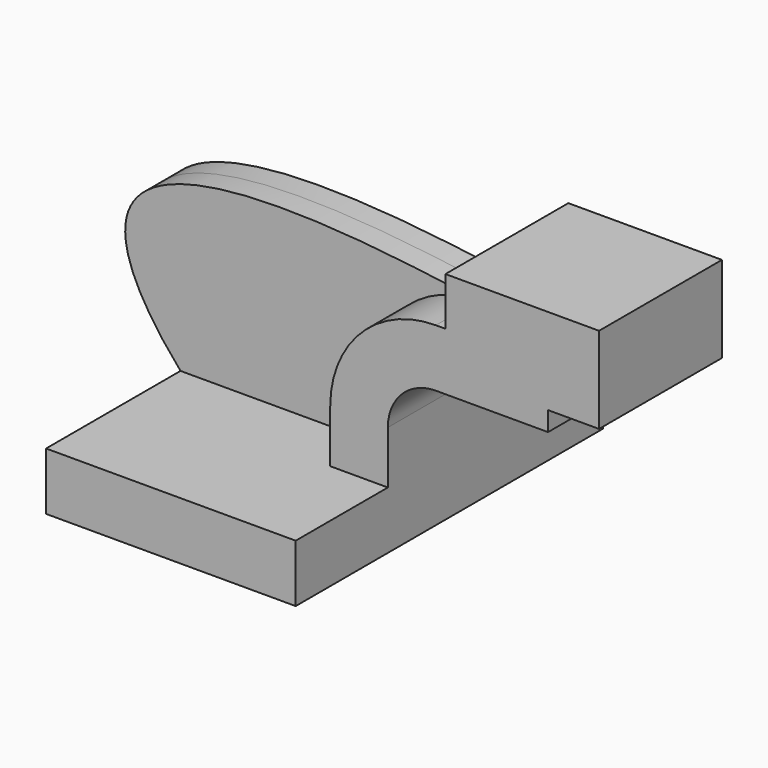
from build123d import *

# Parameters (mm, degrees)
F1_DEPTH = 63.5
F0_W     = 33.928780768
F0_H     = 12.6356402498
F2_DEPTH = 25.4
F3_DEPTH = 7.9375


with BuildPart() as f1:
    # F0 (on Front) → F1 (new body, symmetric)
    with BuildSketch(Plane.XZ):
        Polygon((-41.275, 9.525), (-41.275, -9.525), (41.275, -9.525), (41.275, 9.525), (22.225, 9.525), align=None)
    extrude(amount=F1_DEPTH, both=True)

    # F0 (on Front) → F2 (join, symmetric)
    with BuildSketch(Plane.XZ):
        with BuildLine():
            Line((22.225, 9.525), (41.275, 9.525))
            Line((41.275, 9.525), (41.275, 27.0002))
            ThreePointArc((41.275, 27.0002), (45.9246798487, 38.2255201513), (57.15, 42.8752))
            Line((57.15, 42.8752), (94.253780768, 42.8752))
            Line((94.253780768, 42.8752), (94.253780768, 49.2895597502))
            Line((94.253780768, 49.2895597502), (60.325, 49.2895597502))
            Line((60.325, 49.2895597502), (60.325, 61.9252))
            Line((60.325, 61.9252), (57.15, 61.9252))
            ThreePointArc((57.15, 61.9252), (32.4542956671, 51.6959043329), (22.225, 27.0002))
            Line((22.225, 27.0002), (22.225, 9.525))
        make_face()
        Polygon((60.325, 77.8645597502), (60.325, 61.9252), (94.253780768, 61.9252), (94.253780768, 49.2895597502), (111.125, 49.2895597502), (111.125, 77.8645597502), align=None)
        with Locations((77.289390384, 55.6073798751)):
            Rectangle(F0_W, F0_H)
    extrude(amount=F2_DEPTH, both=True)

    # F0 (on Front) → F3 (join, symmetric)
    with BuildSketch(Plane.XZ):
        with BuildLine():
            add(Edge.make_bspline(
                [(-41.275, 9.525), (-66.8876323333, 38.7312213145), (-87.5999182085, 84.2466196499), (57.15, 61.9252)],
                knots=[0, 0, 0, 0, 111.5045361635, 111.5045361635, 111.5045361635, 111.5045361635], degree=3))
            Line((-41.275, 9.525), (22.225, 9.525))
            Line((22.225, 9.525), (22.225, 27.0002))
            ThreePointArc((22.225, 27.0002), (32.4542956671, 51.6959043329), (57.15, 61.9252))
        make_face()
    extrude(amount=F3_DEPTH, both=True)


solid = f1.part
